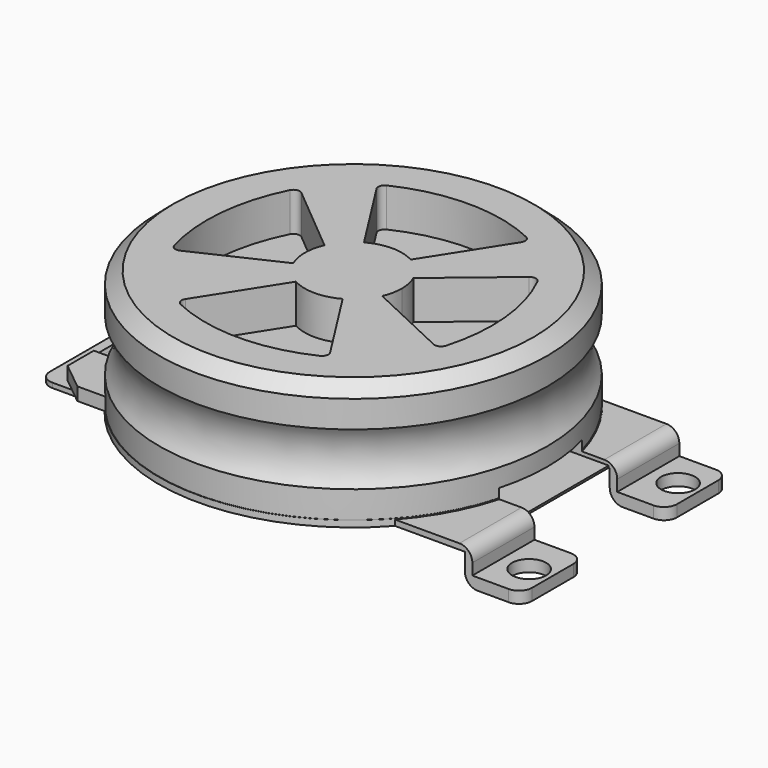
from build123d import *

# Parameters (mm, degrees)
F3_DEPTH  = 7.62
F4_R      = 1.27
F5_R      = 1.27
F6_R      = 1.27
F7_R      = 1.27
F8_R      = 38.1635
F8_R_2    = 38.1
F8_R_3    = 6.35
F9_DEPTH  = 1.27
F10_R     = 6.35
F11_DEPTH = 1.27
F12_DEPTH = 5.08
F13_SIZE  = 1.27
F15_DEPTH = 5.08
F16_W     = 1.5503317118
F16_H     = 5.6140748784
F17_DEPTH = 12.7
F18_W     = 4.2479932308
F18_H     = 18.4551104903
F19_DEPTH = 25.4
F20_R     = 1.27
F21_W     = 1.4739185572
F21_H     = 3.6392435431
F22_DEPTH = 25.4
F24_W     = 19.498936832
F24_H     = 3.6067618057
F24_W_2   = 8.9468471706
F24_H_2   = 9.674844332
F25_DEPTH = 10.16
F23_R     = 3.3503869352
F26_DEPTH = 25.4
F27_R     = 2.54
F29_START = -7.62
F29_DEPTH = 2.54


with BuildPart() as f1:
    # F0 (on Front) → F1 (revolve)
    with BuildSketch(Plane.XZ):
        with BuildLine():
            Line((38.1, 5.1619349979), (38.1, 10.4672089629))
            Line((38.1, 10.4672089629), (35.3847315665, 12.8019368276))
            Line((35.3847315665, 12.8019368276), (0, 12.8019368276))
            Line((0, 12.8019368276), (0, -5.1619349979))
            Line((0, -5.1619349979), (0, -10.4672075979))
            Line((0, -10.4672075979), (38.1, -10.4672075979))
            Line((38.1, -10.4672075979), (38.1, -5.1619349979))
            ThreePointArc((38.1, -5.1619349979), (36.5098316879, 0), (38.1, 5.1619349979))
        make_face()
    revolve(axis=Axis((0, 0, 4.0121143684), (0, 0, -1)))

    # F2 (on face) → F3 (cut)
    with BuildSketch(Plane.XY.offset(12.8019368276)):
        with BuildLine():
            ThreePointArc((-4.5847, 8.3490209552), (0, 9.525), (4.5847, 8.3490209552))
            Line((4.5847, 8.3490209552), (14.9703790496, 24.6512715679))
            ThreePointArc((14.9703790496, 24.6512715679), (0.001087062, 28.3641023084), (-14.9668170137, 24.6456802915))
            Line((-14.9668170137, 24.6456802915), (-4.5847, 8.3490209552))
        make_face()
        with BuildLine():
            ThreePointArc((-8.72425296, -3.8227), (-9.525, 0), (-8.72425296, 3.8227))
            Line((-8.72425296, 3.8227), (-23.5637737238, 16.2087537647))
            ThreePointArc((-23.5637737238, 16.2087537647), (-27.8603099247, 2.364948039), (-26.2212824078, -12.0373007123))
            Line((-26.2212824078, -12.0373007123), (-8.72425296, -3.8227))
        make_face()
        with BuildLine():
            Line((14.9703790496, -24.6512715679), (4.5847, -8.3490209552))
            ThreePointArc((4.5847, -8.3490209552), (0, -9.525), (-4.5847, -8.3490209552))
            Line((-4.5847, -8.3490209552), (-14.9668170137, -24.6456802915))
            ThreePointArc((-14.9668170137, -24.6456802915), (0.001087062, -28.3641023084), (14.9703790496, -24.6512715679))
        make_face()
        with BuildLine():
            ThreePointArc((8.72425296, 3.8227), (9.3226641698, 1.9528332694), (9.525, 0))
            ThreePointArc((9.525, 0), (9.3226641698, -1.9528332694), (8.72425296, -3.8227))
            Line((8.72425296, -3.8227), (26.2212824078, -12.0373007123))
            ThreePointArc((26.2212824078, -12.0373007123), (27.8603099247, 2.364948039), (23.5637737238, 16.2087537647))
            Line((23.5637737238, 16.2087537647), (8.72425296, 3.8227))
        make_face()
    extrude(amount=-F3_DEPTH, mode=Mode.SUBTRACT)

    # F4
    f4_edges = [f1.edges().sort_by_distance(p)[0] for p in [
        (-23.563774, 16.208754, 8.991937),
        (-26.221282, -12.037301, 8.991937),
    ]]
    fillet(f4_edges, radius=F4_R)

    # F5
    f5_edges = [f1.edges().sort_by_distance(p)[0] for p in [
        (23.563774, 16.208754, 8.991937),
        (26.221282, -12.037301, 8.991937),
    ]]
    fillet(f5_edges, radius=F5_R)

    # F6
    f6_edges = [f1.edges().sort_by_distance(p)[0] for p in [
        (14.970379, 24.651272, 8.991937),
        (-14.966817, 24.64568, 8.991937),
    ]]
    fillet(f6_edges, radius=F6_R)

    # F7
    f7_edges = [f1.edges().sort_by_distance(p)[0] for p in [
        (-14.966817, -24.64568, 8.991937),
        (14.970379, -24.651272, 8.991937),
    ]]
    fillet(f7_edges, radius=F7_R)

    # F8 (on face) → F9 (join)
    with BuildSketch(Plane(origin=(0, 0, -10.4672075979), x_dir=(1, 0, 0), z_dir=(0, 0, -1))):
        Circle(F8_R)
        Circle(F8_R_2, mode=Mode.SUBTRACT)
        Circle(F8_R_2)
        with BuildLine():
            ThreePointArc((15.2978791062, 11.3524180179), (18.0876628807, 5.9782063793), (19.05, 0))
            ThreePointArc((19.05, 0), (18.0876628807, -5.9782063793), (15.2978791062, -11.3524180179))
            ThreePointArc((15.2978791062, -11.3524180179), (16.1086926372, -12.4523988749), (16.3958752879, -13.7884013423))
            ThreePointArc((16.3958752879, -13.7884013423), (14.2228751508, -16.8556128602), (10.6086050519, -15.8227683688))
            ThreePointArc((10.6086050519, -15.8227683688), (-7.4998811913, -17.511547108), (-18.7725642667, -3.2393411142))
            ThreePointArc((-18.7725642667, -3.2393411142), (-22.3012, 0), (-18.7725642667, 3.2393411142))
            ThreePointArc((-18.7725642667, 3.2393411142), (-7.4998811913, 17.511547108), (10.6086050519, 15.8227683688))
            ThreePointArc((10.6086050519, 15.8227683688), (14.2228751508, 16.8556128602), (16.3958752879, 13.7884013423))
            ThreePointArc((16.3958752879, 13.7884013423), (16.1086926372, 12.4523988749), (15.2978791062, 11.3524180179))
        make_face(mode=Mode.SUBTRACT)
        with BuildLine():
            ThreePointArc((15.2978791062, -11.3524180179), (18.0876628807, -5.9782063793), (19.05, 0))
            ThreePointArc((19.05, 0), (18.0876628807, 5.9782063793), (15.2978791062, 11.3524180179))
            ThreePointArc((15.2978791062, 11.3524180179), (10.9013173721, 11.4351808465), (10.6086050519, 15.8227683688))
            ThreePointArc((10.6086050519, 15.8227683688), (-7.4998811913, 17.511547108), (-18.7725642667, 3.2393411142))
            ThreePointArc((-18.7725642667, 3.2393411142), (-16.6549738523, 2.1986703236), (-15.7988, 0))
            ThreePointArc((-15.7988, 0), (-16.6549738523, -2.1986703236), (-18.7725642667, -3.2393411142))
            ThreePointArc((-18.7725642667, -3.2393411142), (-7.4998811913, -17.511547108), (10.6086050519, -15.8227683688))
            ThreePointArc((10.6086050519, -15.8227683688), (10.9013173721, -11.4351808465), (15.2978791062, -11.3524180179))
        make_face()
        Circle(F8_R_3, mode=Mode.SUBTRACT)
        Circle(F8_R_3)
    extrude(amount=F9_DEPTH)

    # F10 (on face) → F11 (join)
    with BuildSketch(Plane(origin=(0, 0, -11.7372075979), x_dir=(1, 0, 0), z_dir=(0, 0, -1))):
        Circle(F10_R)
    extrude(amount=F11_DEPTH)

    # F12 (add): faces of the model
    f12_faces = [f1.faces().sort_by_distance(p)[0] for p in [
        (-19.05, 0, -10.4672075979),
        (13.1446752879, -13.7884013423, -10.4672075979),
        (13.1446752879, 13.7884013423, -10.4672075979),
    ]]
    extrude(f12_faces, amount=F12_DEPTH)

    # F13
    f13_edges = [f1.edges().sort_by_distance(p)[0] for p in [
        (-19.327436, 3.239341, -15.547208),
        (10.991471, -16.224385, -15.547208),
        (15.680746, 11.754034, -15.547208),
    ]]
    chamfer(f13_edges, length=F13_SIZE)

    # F14 (on face) → F15 (cut)
    with BuildSketch(Plane(origin=(0, 0, -15.5472075979), x_dir=(1, 0, 0), z_dir=(0, 0, -1))):
        Polygon((-19.5883781174, -0.932498253), (-18.5116218826, -0.932498253), (-17.9732437653, 0), (-18.5116218826, 0.932498253), (-19.5883781174, 0.932498253), (-20.1267562347, 0), align=None)
        Polygon((12.6079911033, 12.7593241632), (13.7598334213, 12.7593241632), (14.3357545803, 13.7568488717), (13.7598334213, 14.7543735802), (12.6079911033, 14.7543735802), (12.0320699444, 13.7568488717), align=None)
        Polygon((13.7116949347, -12.7356480807), (12.3682391557, -12.7356480807), (11.6965112661, -13.8991149142), (12.3682391557, -15.0625817478), (13.7116949347, -15.0625817478), (14.3834228243, -13.8991149142), align=None)
    extrude(amount=-F15_DEPTH, mode=Mode.SUBTRACT)

    # F16 (on Front) → F17 (join, symmetric)
    with BuildSketch(Plane.XZ):
        Polygon((-32.2118215263, -11.686575599), (-32.2118215263, -10.4102920741), (-42.9334044456, -10.4102920741), (-42.9334044456, -11.686575599), (-41.3830727339, -11.686575599), align=None)
        with Locations((-42.1582385898, -14.4936130382)):
            Rectangle(F16_W, F16_H)
        Polygon((-41.3830727339, -17.3006504774), (-42.9334044456, -17.3006504774), (-51.4909774065, -17.3006504774), (-51.4909774065, -18.2480737567), (-41.3830727339, -18.2480737567), align=None)
    extrude(amount=F17_DEPTH, both=True)

    # F18 (on face) → F19 (cut)
    with BuildSketch(Plane.XY.offset(-17.3006504774)):
        with Locations((-47.2121909261, 0)):
            Rectangle(F18_W, F18_H)
    extrude(amount=-F19_DEPTH, mode=Mode.SUBTRACT)

    # F20
    f20_edges = [f1.edges().sort_by_distance(p)[0] for p in [
        (-49.336188, 9.227555, -17.774362),
        (-45.088194, 9.227555, -17.774362),
        (-49.336188, -9.227555, -17.774362),
        (-45.088194, -9.227555, -17.774362),
    ]]
    fillet(f20_edges, radius=F20_R)

    # F21 (on Front) → F22 (join, symmetric)
    with BuildSketch(Plane.XZ):
        Polygon((43.6872541904, -10.6276860461), (22.8208769113, -10.6276860461), (22.8208769113, -11.7372768), (42.2133356333, -11.7372768), (43.6872541904, -11.7372768), align=None)
        with Locations((42.9502949119, -13.5568985716)):
            Rectangle(F21_W, F21_H)
        Polygon((53.3728897572, -15.3765203431), (43.6872541904, -15.3765203431), (42.2133356333, -15.3765203431), (42.2133356333, -17.6648404449), (53.3728897572, -17.6648404449), align=None)
    extrude(amount=F22_DEPTH, both=True)

    # F24 (on Front) → F25 (cut, symmetric)
    with BuildSketch(Plane.XZ):
        Polygon((61.5164451301, -8.7059047073), (28.3735431731, -8.7059047073), (28.3735431731, -11.3572236151), (42.0175082982, -11.3572236151), (61.5164451301, -11.3572236151), align=None)
        with Locations((51.7669767141, -13.1606045179)):
            Rectangle(F24_W, F24_H)
        with Locations((65.9898687154, -19.8014075868)):
            Rectangle(F24_W_2, F24_H_2)
        with Locations((51.7669767141, -19.8014075868)):
            Rectangle(F24_W, F24_H_2)
    extrude(amount=F25_DEPTH, both=True, mode=Mode.SUBTRACT)

    # F23 (on face) → F26 (cut)
    with BuildSketch(Plane.XY.offset(-15.3765203431)):
        with Locations((49.1436608136, 18.2800516486)):
            Circle(F23_R)
        with Locations((49.1436608136, -18.2800516486)):
            Circle(F23_R)
    extrude(amount=-F26_DEPTH, mode=Mode.SUBTRACT)

    # F27
    f27_edges = [f1.edges().sort_by_distance(p)[0] for p in [
        (43.687254, 17.78, -10.627686),
        (42.213336, 17.78, -17.66484),
        (42.213336, -17.78, -17.66484),
        (43.687254, -17.78, -10.627686),
        (53.37289, -25.4, -16.52068),
        (53.37289, -10.16, -16.52068),
        (53.37289, 10.16, -16.52068),
        (53.37289, 25.4, -16.52068),
        (-42.933404, 0, -10.410292),
        (-41.383073, 0, -18.248074),
        (-51.490977, -12.7, -17.774362),
        (-51.490977, 12.7, -17.774362),
    ]]
    fillet(f27_edges, radius=F27_R)

    # F28 (on Top) → F29 (join)
    with BuildSketch(Plane.XY.offset(F29_START)):
        Polygon((-38.9726124704, 14.9672068655), (-31.745903194, 14.9672068655), (-26.2082958382, 25.8024390787), (-33.5525795817, 25.8024390787), (-38.9726124704, 21.4135237038), align=None)
        Polygon((-26.2082958382, -25.8024390787), (-31.745903194, -14.9672068655), (-38.9726124704, -14.9672068655), (-38.9726124704, -21.4135237038), (-33.5525795817, -25.8024390787), align=None)
    extrude(amount=-F29_DEPTH)


solid = f1.part
